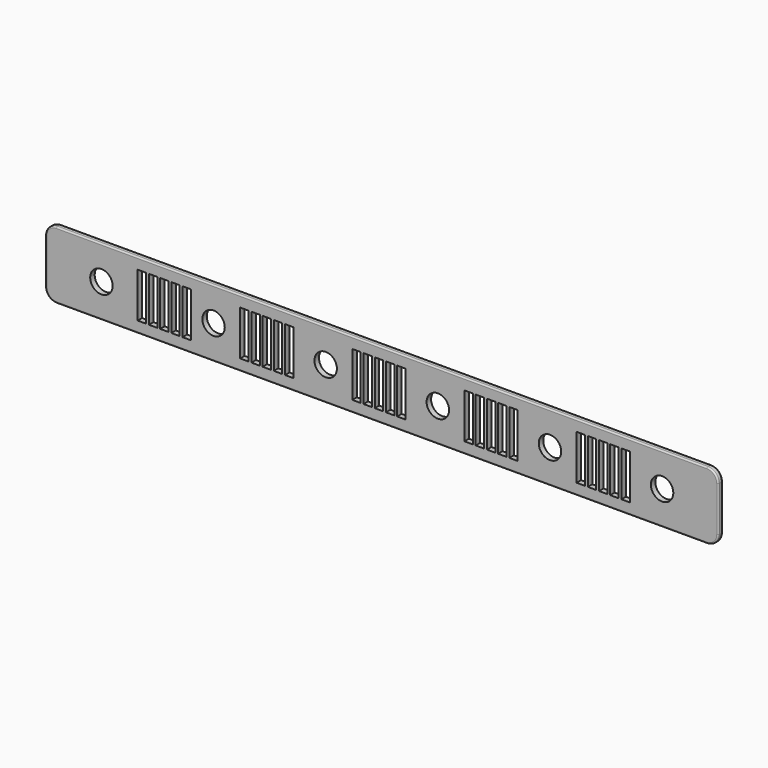
from build123d import *

# Parameters (mm, degrees)
F0_W     = 762
F0_H     = 76.2
F0_R     = 12.7
F1_DEPTH = 6.35
F2_W     = 9.525
F2_H     = 50.8
F3_DEPTH = 25.4
F4_R     = 12.7
F5_R     = 1.6002


with BuildPart() as f1:
    # F0 (on Front) → F1 (new body)
    with BuildSketch(Plane.XZ):
        with Locations((190.5, -15.812627)):
            Rectangle(F0_W, F0_H)
        with Locations((-127, -15.812627)):
            Circle(F0_R, mode=Mode.SUBTRACT)
        with Locations((0, -15.812627)):
            Circle(F0_R, mode=Mode.SUBTRACT)
        with Locations((127, -15.812627)):
            Circle(F0_R, mode=Mode.SUBTRACT)
        with Locations((254, -15.812627)):
            Circle(F0_R, mode=Mode.SUBTRACT)
        with Locations((381, -15.812627)):
            Circle(F0_R, mode=Mode.SUBTRACT)
        with Locations((508, -15.812627)):
            Circle(F0_R, mode=Mode.SUBTRACT)
    extrude(amount=F1_DEPTH)

    # F2 (on face) → F3 (cut)
    with BuildSketch(Plane.XZ.offset(6.35)):
        with Locations((34.9377, -15.812627)):
            Rectangle(F2_W, F2_H)
        with Locations((47.6377, -15.812627)):
            Rectangle(F2_W, F2_H)
        with Locations((60.3377, -15.812627)):
            Rectangle(F2_W, F2_H)
        with Locations((73.0377, -15.812627)):
            Rectangle(F2_W, F2_H)
        with Locations((85.7377, -15.812627)):
            Rectangle(F2_W, F2_H)
        with Locations((161.9377, -15.812627)):
            Rectangle(F2_W, F2_H)
        with Locations((174.6377, -15.812627)):
            Rectangle(F2_W, F2_H)
        with Locations((187.3377, -15.812627)):
            Rectangle(F2_W, F2_H)
        with Locations((200.0377, -15.812627)):
            Rectangle(F2_W, F2_H)
        with Locations((212.7377, -15.812627)):
            Rectangle(F2_W, F2_H)
        with Locations((288.9377, -15.812627)):
            Rectangle(F2_W, F2_H)
        with Locations((301.6377, -15.812627)):
            Rectangle(F2_W, F2_H)
        with Locations((314.3377, -15.812627)):
            Rectangle(F2_W, F2_H)
        with Locations((327.0377, -15.812627)):
            Rectangle(F2_W, F2_H)
        with Locations((339.7377, -15.812627)):
            Rectangle(F2_W, F2_H)
        with Locations((415.9377, -15.812627)):
            Rectangle(F2_W, F2_H)
        with Locations((428.6377, -15.812627)):
            Rectangle(F2_W, F2_H)
        with Locations((441.3377, -15.812627)):
            Rectangle(F2_W, F2_H)
        with Locations((454.0377, -15.812627)):
            Rectangle(F2_W, F2_H)
        with Locations((466.7377, -15.812627)):
            Rectangle(F2_W, F2_H)
        with Locations((-81.209007, -15.812627)):
            Rectangle(F2_W, F2_H)
        with Locations((-68.509007, -15.812627)):
            Rectangle(F2_W, F2_H)
        with Locations((-55.809007, -15.812627)):
            Rectangle(F2_W, F2_H)
        with Locations((-43.109007, -15.812627)):
            Rectangle(F2_W, F2_H)
        with Locations((-30.409007, -15.812627)):
            Rectangle(F2_W, F2_H)
    extrude(amount=-F3_DEPTH, mode=Mode.SUBTRACT)

    # F4
    f4_edges = [f1.edges().sort_by_distance(p)[0] for p in [
        (-190.5, -3.175, 22.287373),
        (-190.5, -3.175, -53.912627),
        (571.5, -3.175, 22.287373),
        (571.5, -3.175, -53.912627),
    ]]
    fillet(f4_edges, radius=F4_R)

    # F5
    f5_edges = [f1.edges().sort_by_distance(p)[0] for p in [
        (190.5, -6.35, 22.287373),
        (190.5, 0, 22.287373),
    ]]
    fillet(f5_edges, radius=F5_R)


solid = f1.part
